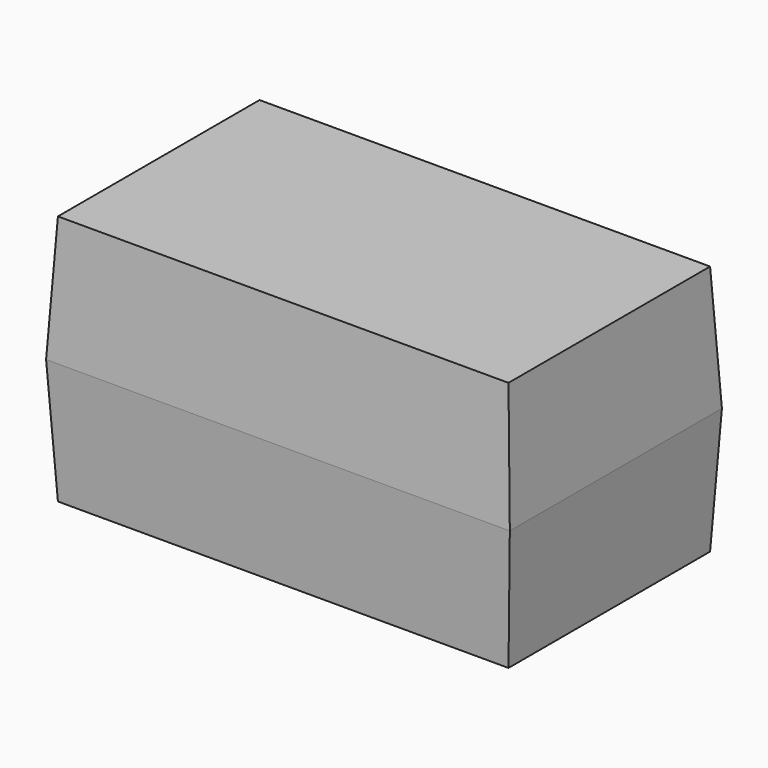
from build123d import *

# Parameters (mm, degrees)
F0_W          = 93.8505940139
F0_H          = 53.6559969187
F1_DEPTH      = 25.4
F1_TAPER      = 3
F1_DEPTH_BACK = 25.4
F1_TAPER_BACK = 3


with BuildPart() as f1:
    # F0 (on Top) → F1 (new body, two sides)
    with BuildSketch(Plane.XY) as f1_sk:
        with Locations((1.9907709211, -0.0947993249)):
            Rectangle(F0_W, F0_H)
    extrude(amount=F1_DEPTH, taper=F1_TAPER)
    extrude(f1_sk.sketch, amount=-F1_DEPTH_BACK, taper=F1_TAPER_BACK)


solid = f1.part
